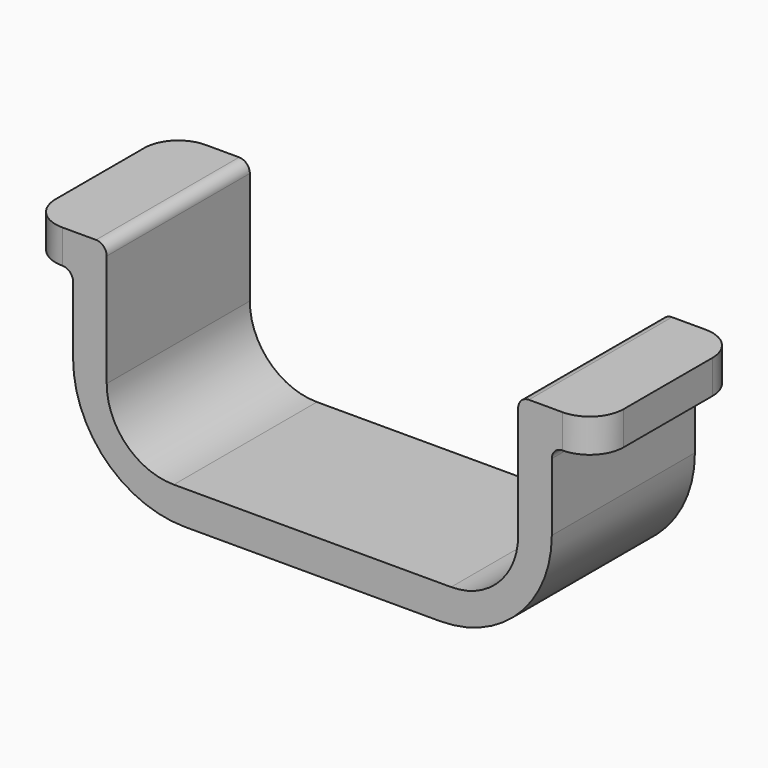
from build123d import *

# Parameters (mm, degrees)
F1_DEPTH = 25.4
F2_R     = 15.875
F3_R     = 4.826
F4_R     = 1.524


with BuildPart() as f1:
    # F0 (on Front) → F1 (new body)
    with BuildSketch(Plane.XZ):
        with BuildLine():
            Line((0, 4.7752), (0, 0))
            Line((0, 0), (67.9704, 0))
            Line((67.9704, 0), (67.9704, 4.7752))
            Line((67.9704, 4.7752), (67.9704, 27.0002))
            Line((67.9704, 27.0002), (74.3204, 27.0002))
            Line((74.3204, 27.0002), (74.3204, 31.7754))
            Line((74.3204, 31.7754), (67.9704, 31.7754))
            Line((67.9704, 31.7754), (63.1952, 31.7754))
            Line((63.1952, 31.7754), (63.1952, 14.3002))
            ThreePointArc((63.1952, 14.3002), (60.405392, 7.565008), (53.6702, 4.7752))
            Line((53.6702, 4.7752), (14.3002, 4.7752))
            ThreePointArc((14.3002, 4.7752), (7.565008, 7.565008), (4.7752, 14.3002))
            Line((4.7752, 14.3002), (4.7752, 31.7754))
            Line((4.7752, 31.7754), (0, 31.7754))
            Line((0, 31.7754), (-6.35, 31.7754))
            Line((-6.35, 31.7754), (-6.35, 27.0002))
            Line((-6.35, 27.0002), (0, 27.0002))
            Line((0, 27.0002), (0, 4.7752))
        make_face()
    extrude(amount=F1_DEPTH)

    # F2
    f2_edges = [f1.edges().sort_by_distance(p)[0] for p in [
        (0, -12.7, 0),
        (67.9704, -12.7, 0),
    ]]
    fillet(f2_edges, radius=F2_R)

    # F3
    f3_edges = [f1.edges().sort_by_distance(p)[0] for p in [
        (-6.35, 0, 29.3878),
        (-6.35, -25.4, 29.3878),
        (74.3204, 0, 29.3878),
        (74.3204, -25.4, 29.3878),
    ]]
    fillet(f3_edges, radius=F3_R)

    # F4
    f4_edges = [f1.edges().sort_by_distance(p)[0] for p in [
        (0, -12.7, 27.0002),
        (4.7752, -12.7, 31.7754),
        (63.1952, -12.7, 31.7754),
        (67.9704, -12.7, 27.0002),
    ]]
    fillet(f4_edges, radius=F4_R)


solid = f1.part
